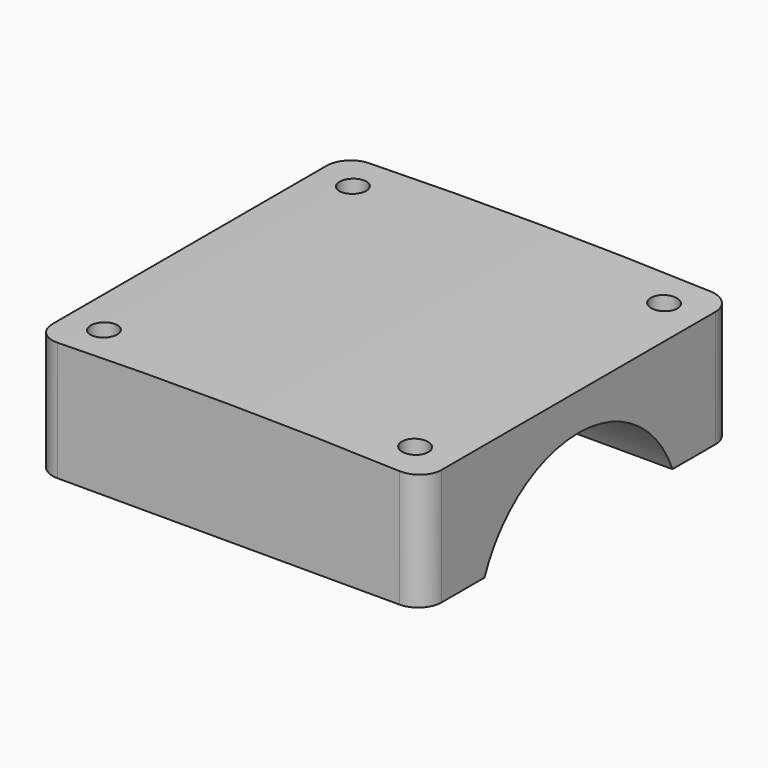
from build123d import *

# Parameters (mm, degrees)
F1_DEPTH = 50
F2_R     = 16.25
F3_DEPTH = 50.001
F4_R     = 1.7
F5_DEPTH = 15.561876
F6_R     = 3


with BuildPart() as f1:
    # F0 (on Front) → F1 (new body)
    with BuildSketch(Plane.XZ):
        with BuildLine():
            Line((-21.273122, 9.52742), (28.726878, 9.52742))
            Line((28.726878, 9.52742), (28.726878, 24.52742))
            ThreePointArc((28.726878, 24.52742), (3.729103, 25.077618), (-21.273122, 24.794238))
            Line((-21.273122, 24.794238), (-21.273122, 9.52742))
        make_face()
    extrude(amount=F1_DEPTH)

    # F2 (on face) → F3 (cut, through all)
    with BuildSketch(Plane.YZ.offset(28.726878)):
        with Locations((-25, 3.52742)):
            Circle(F2_R)
    extrude(amount=-F3_DEPTH, mode=Mode.SUBTRACT)

    # F4 (on face) → F5 (cut, through all)
    with BuildSketch(Plane(origin=(0, 0, 9.52742), x_dir=(1, 0, 0), z_dir=(0, 0, -1))):
        with Locations((-16.273122, 45)):
            Circle(F4_R)
        with Locations((23.726878, 45)):
            Circle(F4_R)
        with Locations((-16.273122, 5)):
            Circle(F4_R)
        with Locations((23.726878, 5)):
            Circle(F4_R)
    extrude(amount=-F5_DEPTH, mode=Mode.SUBTRACT)

    # F6
    f6_edges = [f1.edges().sort_by_distance(p)[0] for p in [
        (28.726878, -50, 17.02742),
        (-21.273122, -50, 17.160829),
        (-21.273122, 0, 17.160829),
        (28.726878, 0, 17.02742),
    ]]
    fillet(f6_edges, radius=F6_R)


solid = f1.part
